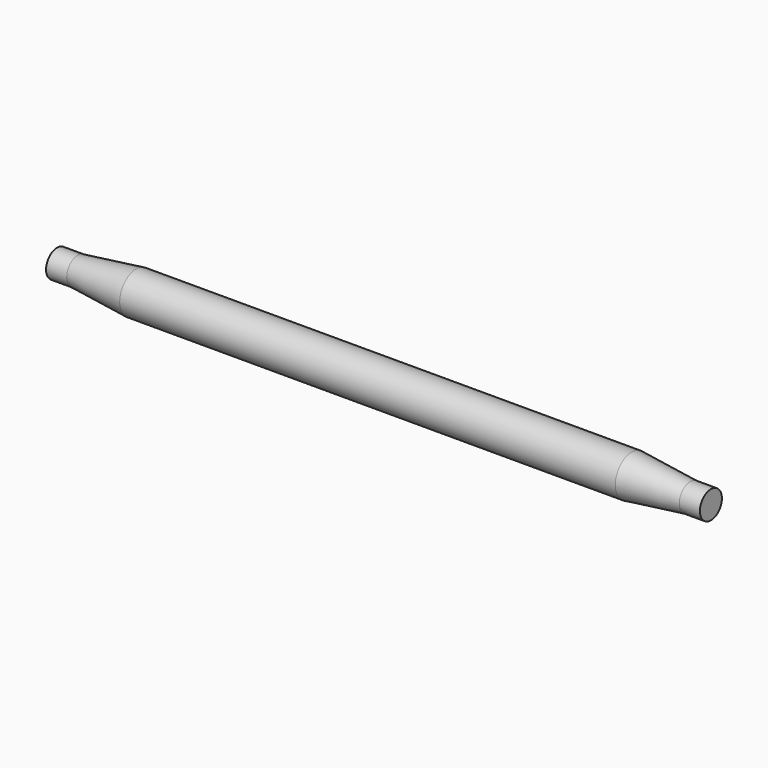
from build123d import *

# Parameters (mm, degrees)
F0_R      = 38.1
F1_DEPTH  = 457.2
F3_R      = 25.4
F4_DEPTH  = 38.1
F1_FACE_R = 38.1
F4_FACE_R = 25.4


with BuildPart() as f1:
    # F0 (on Right) → F1 (new body, symmetric)
    with BuildSketch(Plane.YZ):
        Circle(F0_R)
    extrude(amount=F1_DEPTH, both=True)



with BuildPart() as f4:
    # F3 (on offset) → F4 (new body)
    with BuildSketch(Plane.YZ.offset(565.15)):
        Circle(F3_R)
    extrude(amount=F4_DEPTH)


with BuildPart() as f1_1:
    add(f1.part)

    add(f4.part)  # F5 merges F4
    # F1_face (on face) → F5 section 0
    with BuildSketch(Plane.YZ.offset(457.2)):
        Circle(F1_FACE_R)
    # F4_face (on face) → F5 section 1
    with BuildSketch(Plane(origin=(565.15, 0, 0), x_dir=(0, 1, 0), z_dir=(-1, 0, 0))):
        Circle(F4_FACE_R)
    loft()

    # F6: F1 across plane


with BuildPart() as f1_2:
    add(f1_1.part)
    add(f1_1.part.mirror(Plane.YZ))


solid = f1_2.part
